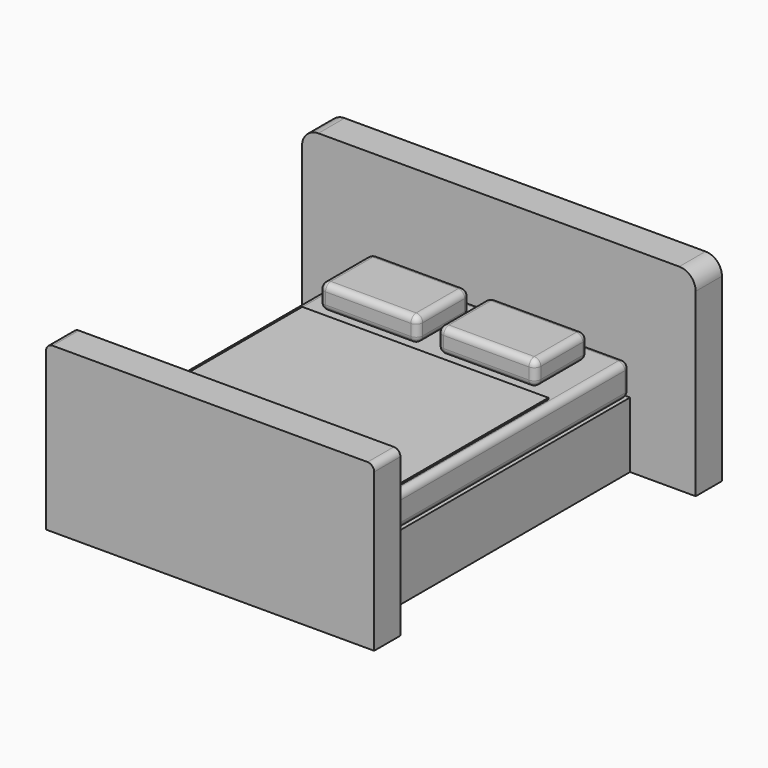
from build123d import *

# Parameters (mm, degrees)
BOX_W        = 160
BOX_H        = 200
BOX_DEPTH    = 40
BOX001_W     = 160
BOX001_H     = 200
BOX001_DEPTH = 20
FILLET_R     = 4
BOX002_W     = 240
BOX002_H     = 20
BOX002_DEPTH = 120
FILLET001_R  = 10
BOX003_W     = 60
BOX003_H     = 40
BOX003_DEPTH = 15
FILLET002_R  = 4
BOX004_W     = 60
BOX004_H     = 40
BOX004_DEPTH = 15
FILLET003_R  = 4
BOX005_W     = 200
BOX005_H     = 20
BOX005_DEPTH = 100
FILLET004_R  = 4
BOX006_W     = 150
BOX006_H     = 140
BOX006_DEPTH = 1


with BuildPart() as obj1:
    # Box → Box (new body)
    with BuildSketch(Plane.XY):
        with Locations((80, 100)):
            Rectangle(BOX_W, BOX_H)
    extrude(amount=BOX_DEPTH)


with BuildPart() as obj2:
    # Box001 → Box001 (new body)
    with BuildSketch(Plane.XY.offset(40)):
        with Locations((80, 100)):
            Rectangle(BOX001_W, BOX001_H)
    extrude(amount=BOX001_DEPTH)

    # Fillet
    fillet_edges = [obj2.edges().sort_by_distance(p)[0] for p in [
        (0, 0, 50),
        (0, 100, 60),
        (0, 200, 50),
        (0, 100, 40),
        (160, 0, 50),
        (160, 100, 60),
        (160, 200, 50),
        (160, 100, 40),
        (80, 0, 40),
        (80, 0, 60),
        (80, 200, 40),
        (80, 200, 60),
    ]]
    fillet(fillet_edges, radius=FILLET_R)


with BuildPart() as obj3:
    # Box002 → Box002 (new body)
    with BuildSketch(Plane(origin=(-40, 200, 0), x_dir=(1, 0, 0), z_dir=(0, 0, 1))):
        with Locations((120, 10)):
            Rectangle(BOX002_W, BOX002_H)
    extrude(amount=BOX002_DEPTH)

    # Fillet001
    fillet001_edges = [obj3.edges().sort_by_distance(p)[0] for p in [
        (-40, 210, 120),
        (200, 210, 120),
    ]]
    fillet(fillet001_edges, radius=FILLET001_R)


with BuildPart() as fillet002:
    # Box003 → Box003 (new body)
    with BuildSketch(Plane(origin=(12, 148, 60), x_dir=(1, 0, 0), z_dir=(0, 0, 1))):
        with Locations((30, 20)):
            Rectangle(BOX003_W, BOX003_H)
    extrude(amount=BOX003_DEPTH)

    # Fillet002
    fillet002_edges = [fillet002.edges().sort_by_distance(p)[0] for p in [
        (12, 148, 67.5),
        (12, 168, 75),
        (12, 188, 67.5),
        (12, 168, 60),
        (72, 148, 67.5),
        (72, 168, 75),
        (72, 188, 67.5),
        (72, 168, 60),
        (42, 148, 60),
        (42, 148, 75),
        (42, 188, 60),
        (42, 188, 75),
    ]]
    fillet(fillet002_edges, radius=FILLET002_R)


with BuildPart() as fillet003:
    # Box004 → Box004 (new body)
    with BuildSketch(Plane(origin=(84, 148, 60), x_dir=(1, 0, 0), z_dir=(0, 0, 1))):
        with Locations((30, 20)):
            Rectangle(BOX004_W, BOX004_H)
    extrude(amount=BOX004_DEPTH)

    # Fillet003
    fillet003_edges = [fillet003.edges().sort_by_distance(p)[0] for p in [
        (84, 148, 67.5),
        (84, 168, 75),
        (84, 188, 67.5),
        (84, 168, 60),
        (144, 148, 67.5),
        (144, 168, 75),
        (144, 188, 67.5),
        (144, 168, 60),
        (114, 148, 60),
        (114, 148, 75),
        (114, 188, 60),
        (114, 188, 75),
    ]]
    fillet(fillet003_edges, radius=FILLET003_R)


with BuildPart() as obj4:
    # Box005 → Box005 (new body)
    with BuildSketch(Plane(origin=(-20, -20, 0), x_dir=(1, 0, 0), z_dir=(0, 0, 1))):
        with Locations((100, 10)):
            Rectangle(BOX005_W, BOX005_H)
    extrude(amount=BOX005_DEPTH)

    # Fillet004
    fillet004_edges = [obj4.edges().sort_by_distance(p)[0] for p in [
        (-20, -10, 100),
        (180, -10, 100),
    ]]
    fillet(fillet004_edges, radius=FILLET004_R)


with BuildPart() as obj5:
    # Box006 → Box006 (new body)
    with BuildSketch(Plane(origin=(5, 4, 60), x_dir=(1, 0, 0), z_dir=(0, 0, 1))):
        with Locations((75, 70)):
            Rectangle(BOX006_W, BOX006_H)
    extrude(amount=BOX006_DEPTH)


solid = Compound([obj1.part, obj2.part, obj3.part, fillet002.part, fillet003.part, obj4.part, obj5.part])
